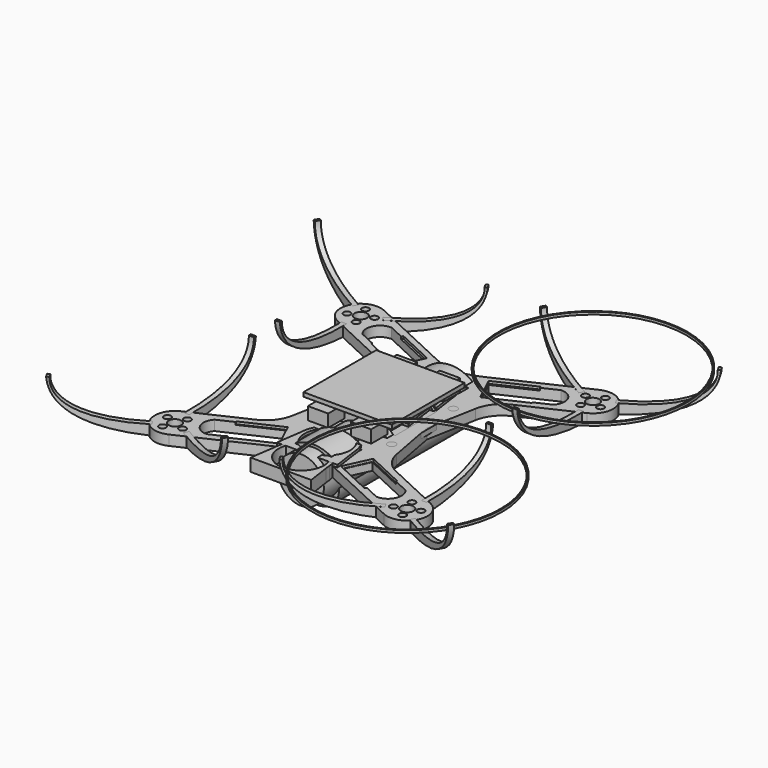
from build123d import *

# Parameters (mm, degrees)
CYLINDER001_R          = 37
CYLINDER001_DEPTH      = 1
CYLINDER002_R          = 37.5
CYLINDER002_DEPTH      = 1
CYLINDER003_R          = 37
CYLINDER003_DEPTH      = 1
CYLINDER004_R          = 37.5
CYLINDER004_DEPTH      = 1
CYLINDER005_R          = 8.25
CYLINDER005_DEPTH      = 65
BOX003_W               = 35.4
BOX003_H               = 36
BOX003_DEPTH           = 2
EXTRUDE002_DEPTH       = 5
EXTRUDE003_DEPTH       = 5
EXTRUDE004_DEPTH       = 5
BOX005_W               = 16
BOX005_H               = 1
BOX005_DEPTH           = 2
EXTRUDE001_DEPTH       = 5
BOX007_W               = 8
BOX007_H               = 8
BOX007_DEPTH           = 5
BOX_W                  = 35
BOX_H                  = 36
BOX_DEPTH              = 1.6
CYLINDER006_R          = 9
CYLINDER006_DEPTH      = 74
EXTRUDE008_DEPTH       = 11
EXTRUDE009_DEPTH       = 2
EXTRUDE009_DEPTH_BACK  = 11
EXTRUDE010_DEPTH       = 2
ARRAY_COUNT            = 3
CYLINDER009_R          = 10
CYLINDER009_DEPTH      = 5
CYLINDER010_R          = 11
CYLINDER010_DEPTH      = 5
CYLINDER008_R          = 10
CYLINDER008_DEPTH      = 5
CYLINDER007_R          = 11
CYLINDER007_DEPTH      = 5
BOX006_W               = 11.2
BOX006_H               = 16.5
BOX006_DEPTH           = 3
BOX006_PLACEMENT_ANGLE = 65
BOX008_W               = 3
BOX008_H               = 20
BOX008_DEPTH           = 10
EXTRUDE007_DEPTH       = 26
CYLINDER_R             = 9
CYLINDER_DEPTH         = 66
SKETCH_R               = 2.5
SKETCH_R_2             = 1.6
SKETCH_R_3             = 1.4
EXTRUDE_DEPTH          = 4


with BuildPart() as cylinder001:
    # Cylinder001 → Cylinder001 (new body)
    with BuildSketch(Plane(origin=(45.96, 45.96, 15), x_dir=(1, 0, 0), z_dir=(0, 0, 1))):
        Circle(CYLINDER001_R)
    extrude(amount=CYLINDER001_DEPTH)


with BuildPart() as prop_m1:
    # Cylinder002 → Cylinder002 (new body)
    with BuildSketch(Plane(origin=(45.96, 45.96, 15), x_dir=(1, 0, 0), z_dir=(0, 0, 1))):
        Circle(CYLINDER002_R)
    extrude(amount=CYLINDER002_DEPTH)

    # Cut: cut Cylinder001
    add(cylinder001.part, mode=Mode.SUBTRACT)


with BuildPart() as cylinder003:
    # Cylinder003 → Cylinder003 (new body)
    with BuildSketch(Plane(origin=(45.96, -45.96, 15), x_dir=(1, 0, 0), z_dir=(0, 0, 1))):
        Circle(CYLINDER003_R)
    extrude(amount=CYLINDER003_DEPTH)


with BuildPart() as prop_m2:
    # Cylinder004 → Cylinder004 (new body)
    with BuildSketch(Plane(origin=(45.96, -45.96, 15), x_dir=(1, 0, 0), z_dir=(0, 0, 1))):
        Circle(CYLINDER004_R)
    extrude(amount=CYLINDER004_DEPTH)

    # Cut001: cut Cylinder003
    add(cylinder003.part, mode=Mode.SUBTRACT)


with BuildPart() as battery:
    # Cylinder005 → Cylinder005 (new body)
    with BuildSketch(Plane(origin=(0, 32.5, -7), x_dir=(1, 0, 0), z_dir=(0, -1, 0))):
        Circle(CYLINDER005_R)
    extrude(amount=CYLINDER005_DEPTH)


with BuildPart() as cube003:
    # Box003 → Box003 (new body)
    with BuildSketch(Plane(origin=(-17.7, -18, 2), x_dir=(1, 0, 0), z_dir=(0, 0, 1))):
        with Locations((17.7, 18)):
            Rectangle(BOX003_W, BOX003_H)
    extrude(amount=BOX003_DEPTH)


with BuildPart() as holder_front001:
    # Sketch001 (on Face16 of Cut005) → Extrude002 (new body)
    with BuildSketch(Plane(origin=(0, 0, 0), x_dir=(1, 0, 0), z_dir=(0, 0, -1))):
        with BuildLine():
            ThreePointArc((7.483315, -12), (0, 2), (-7.483315, -12))
            Line((-9.233093, -12), (-7.483315, -12))
            ThreePointArc((-10.463405, -7.875874), (-10.061814, -10.001648), (-9.233093, -12))
            ThreePointArc((-10.463405, -7.875874), (-10.555519, -6.948852), (-10.676372, -6.025138))
            Line((-10.676372, -6.025138), (-12, 3))
            Line((-12, 3), (12, 3))
            Line((10.674333, -6.046727), (12, 3))
            ThreePointArc((10.674333, -6.046727), (10.554566, -6.962004), (10.463014, -7.880533))
            ThreePointArc((9.233093, -12), (10.061146, -10.003888), (10.463014, -7.880533))
            Line((7.483315, -12), (9.233093, -12))
        make_face()
    extrude(amount=-EXTRUDE002_DEPTH)


with BuildPart() as holder_back:
    # Sketch001 (on Face16 of Cut005) → Extrude003 (new body)
    with BuildSketch(Plane(origin=(0, 0, 0), x_dir=(1, 0, 0), z_dir=(0, 0, -1))):
        with BuildLine():
            ThreePointArc((7.483315, -12), (0, 2), (-7.483315, -12))
            Line((-9.233093, -12), (-7.483315, -12))
            ThreePointArc((-10.463405, -7.875874), (-10.061814, -10.001648), (-9.233093, -12))
            ThreePointArc((-10.463405, -7.875874), (-10.555519, -6.948852), (-10.676372, -6.025138))
            Line((-10.676372, -6.025138), (-12, 3))
            Line((-12, 3), (12, 3))
            Line((10.674333, -6.046727), (12, 3))
            ThreePointArc((10.674333, -6.046727), (10.554566, -6.962004), (10.463014, -7.880533))
            ThreePointArc((9.233093, -12), (10.061146, -10.003888), (10.463014, -7.880533))
            Line((7.483315, -12), (9.233093, -12))
        make_face()
    extrude(amount=-EXTRUDE003_DEPTH)


with BuildPart() as holder_back_1:
    # Extrude003 placement: moved
    add(holder_back.part.moved(Location((0, -48, 0))))


with BuildPart() as holder_back2:
    # Sketch001 (on Face16 of Cut005) → Extrude004 (new body)
    with BuildSketch(Plane(origin=(0, 0, 0), x_dir=(1, 0, 0), z_dir=(0, 0, -1))):
        with BuildLine():
            ThreePointArc((7.483315, -12), (0, 2), (-7.483315, -12))
            Line((-9.233093, -12), (-7.483315, -12))
            ThreePointArc((-10.463405, -7.875874), (-10.061814, -10.001648), (-9.233093, -12))
            ThreePointArc((-10.463405, -7.875874), (-10.555519, -6.948852), (-10.676372, -6.025138))
            Line((-10.676372, -6.025138), (-12, 3))
            Line((-12, 3), (12, 3))
            Line((10.674333, -6.046727), (12, 3))
            ThreePointArc((10.674333, -6.046727), (10.554566, -6.962004), (10.463014, -7.880533))
            ThreePointArc((9.233093, -12), (10.061146, -10.003888), (10.463014, -7.880533))
            Line((7.483315, -12), (9.233093, -12))
        make_face()
    extrude(amount=-EXTRUDE004_DEPTH)


with BuildPart() as holder_back2_1:
    # Extrude004 placement: moved
    add(holder_back2.part.moved(Location((0, -35, 0))))


with BuildPart() as cube005:
    # Box005 → Box005 (new body)
    with BuildSketch(Plane(origin=(-8, 33, -2), x_dir=(1, 0, 0), z_dir=(0, 0, 1))):
        with Locations((8, 0.5)):
            Rectangle(BOX005_W, BOX005_H)
    extrude(amount=BOX005_DEPTH)


with BuildPart() as holder_front002:
    # Sketch001 (on Face16 of Cut005) → Extrude001 (new body)
    with BuildSketch(Plane(origin=(0, 0, 0), x_dir=(1, 0, 0), z_dir=(0, 0, -1))):
        with BuildLine():
            ThreePointArc((7.483315, -12), (0, 2), (-7.483315, -12))
            Line((-9.233093, -12), (-7.483315, -12))
            ThreePointArc((-10.463405, -7.875874), (-10.061814, -10.001648), (-9.233093, -12))
            ThreePointArc((-10.463405, -7.875874), (-10.555519, -6.948852), (-10.676372, -6.025138))
            Line((-10.676372, -6.025138), (-12, 3))
            Line((-12, 3), (12, 3))
            Line((10.674333, -6.046727), (12, 3))
            ThreePointArc((10.674333, -6.046727), (10.554566, -6.962004), (10.463014, -7.880533))
            ThreePointArc((9.233093, -12), (10.061146, -10.003888), (10.463014, -7.880533))
            Line((7.483315, -12), (9.233093, -12))
        make_face()
    extrude(amount=-EXTRUDE001_DEPTH)


with BuildPart() as holder_front002_1:
    # Extrude001 placement: moved
    add(holder_front002.part.moved(Location((0, 14, 0))))

    # Fusion002: union Cube005
    add(cube005.part)


with BuildPart() as cube006:
    # Box007 → Box007 (new body)
    with BuildSketch(Plane(origin=(4.5, 14, 6), x_dir=(1, 0, 0), z_dir=(0, 0, 1))):
        with Locations((4, 4)):
            Rectangle(BOX007_W, BOX007_H)
    extrude(amount=BOX007_DEPTH)


with BuildPart() as fusion003:
    # Part__Mirroring003: instance of Cube006
    add(cube006.part.mirror(Plane(origin=(0, 0, 0), x_dir=(1, 0, 0), z_dir=(0, 1, 0))))

    # Fusion003: union Cube006
    add(cube006.part)


with BuildPart() as fusion004:
    # Part__Mirroring004: instance of Fusion003
    add(fusion003.part.mirror(Plane(origin=(0, 0, 0), x_dir=(0, -1, 0), z_dir=(1, 0, 0))))

    # Fusion004: union Fusion003
    add(fusion003.part)


with BuildPart() as bolt_pcb:
    # Box → Box (new body)
    with BuildSketch(Plane(origin=(-17.5, -18, 11), x_dir=(1, 0, 0), z_dir=(0, 0, 1))):
        with Locations((17.5, 18)):
            Rectangle(BOX_W, BOX_H)
    extrude(amount=BOX_DEPTH)

    # Fusion005: union Fusion004
    add(fusion004.part)


with BuildPart() as cylinder006:
    # Cylinder006 → Cylinder006 (new body)
    with BuildSketch(Plane(origin=(0, 33, -3), x_dir=(1, 0, 0), z_dir=(0, -1, 0))):
        Circle(CYLINDER006_R)
    extrude(amount=CYLINDER006_DEPTH)


with BuildPart() as extrude008:
    # Sketch003 (on Face2 of Cylinder006) → Extrude008 (new body)
    with BuildSketch(Plane(origin=(0, -41, -3), x_dir=(1, 0, 0), z_dir=(0, -1, 0))):
        with BuildLine():
            ThreePointArc((5.656854, 7), (0, 9), (-5.656854, 7))
            Line((-8.660254, 7), (-5.656854, 7))
            ThreePointArc((8.660254, 7), (0, 10), (-8.660254, 7))
            Line((5.656854, 7), (8.660254, 7))
        make_face()
    extrude(amount=-EXTRUDE008_DEPTH)


with BuildPart() as extrude008_1:
    # Extrude008 placement: moved
    add(extrude008.part.moved(Location((0, 63, 0))))


with BuildPart() as extrude009:
    # Sketch003 (on Face2 of Cylinder006) → Extrude009 (new body, two sides)
    with BuildSketch(Plane(origin=(0, -41, -3), x_dir=(1, 0, 0), z_dir=(0, -1, 0))) as extrude009_sk:
        with BuildLine():
            ThreePointArc((5.656854, 7), (0, 9), (-5.656854, 7))
            Line((-8.660254, 7), (-5.656854, 7))
            ThreePointArc((8.660254, 7), (0, 10), (-8.660254, 7))
            Line((5.656854, 7), (8.660254, 7))
        make_face()
    extrude(amount=EXTRUDE009_DEPTH)
    extrude(extrude009_sk.sketch, amount=-EXTRUDE009_DEPTH_BACK)


with BuildPart() as extrude009_1:
    # Extrude009 placement: moved
    add(extrude009.part.moved(Location((0, 8, 0))))


with BuildPart() as array:
    # Sketch004 → Extrude010 (new body)
    with BuildSketch(Plane(origin=(45.96, 45.96, 0), x_dir=(0, 1, 0), z_dir=(1, 0, 0))):
        with BuildLine():
            Line((-6.999955, 3.999966), (-6.999955, 4.8e-05))
            add(Edge.make_bspline(
                [(-6.999955, 4.8e-05), (-38.743463, 1.339871), (-40.006695, 18.000854)],
                knots=[0, 0, 0, 1, 1, 1], degree=2, weights=[5.181109, 4.836074, 4.95]))
            Line((-40.006695, 18.000854), (-38.997418, 18.000854))
            add(Edge.make_bspline(
                [(-6.999955, 3.999966), (-38.902102, 3.405926), (-39.097268, 15.599177), (-38.997418, 18.000854)],
                knots=[0, 0, 0, 0, 1, 1, 1, 1], degree=3, weights=[4, 4, 4, 3.96]))
        make_face()
    extrude(amount=EXTRUDE010_DEPTH)

    # Array: Array ×3 about axis
    array_axis = Axis((45.96, 45.96, 0), (0, 0, 1))


with BuildPart() as array_1:
    add(array.part)
    for i in range(1, ARRAY_COUNT):
        add(array.part.rotate(array_axis, i * 360 / ARRAY_COUNT))


with BuildPart() as fusion008:
    # Part__Mirroring006: instance of Array
    add(array_1.part.mirror(Plane(origin=(0, 0, 0), x_dir=(1, 0, 0), z_dir=(0, 1, 0))))

    # Fusion008: union Array
    add(array_1.part)


with BuildPart() as obj1:
    # Part__Mirroring007: instance of Fusion008
    add(fusion008.part.mirror(Plane(origin=(0, 0, 0), x_dir=(0, -1, 0), z_dir=(1, 0, 0))))

    # Fusion009: union Fusion008
    add(fusion008.part)


with BuildPart() as cylinder009:
    # Cylinder009 → Cylinder009 (new body)
    with BuildSketch(Plane.XZ.offset(-29)):
        Circle(CYLINDER009_R)
    extrude(amount=CYLINDER009_DEPTH)


with BuildPart() as cut009:
    # Cylinder010 → Cylinder010 (new body)
    with BuildSketch(Plane.XZ.offset(-29)):
        Circle(CYLINDER010_R)
    extrude(amount=CYLINDER010_DEPTH)

    # Cut009: cut Cylinder009
    add(cylinder009.part, mode=Mode.SUBTRACT)


with BuildPart() as cut009_1:
    # Cut009 placement: moved
    add(cut009.part.moved(Location((0, -53, 0))))


with BuildPart() as cylinder008:
    # Cylinder008 → Cylinder008 (new body)
    with BuildSketch(Plane.XZ.offset(-29)):
        Circle(CYLINDER008_R)
    extrude(amount=CYLINDER008_DEPTH)


with BuildPart() as obj2:
    # Cylinder007 → Cylinder007 (new body)
    with BuildSketch(Plane.XZ.offset(-29)):
        Circle(CYLINDER007_R)
    extrude(amount=CYLINDER007_DEPTH)

    # Cut008: cut Cylinder008
    add(cylinder008.part, mode=Mode.SUBTRACT)

    # Fusion011: union Cut009
    add(cut009_1.part)


with BuildPart() as esc:
    # Box006 → Box006 (new body)
    with BuildSketch(Plane.XY):
        with Locations((5.6, 8.25)):
            Rectangle(BOX006_W, BOX006_H)
    extrude(amount=BOX006_DEPTH)


with BuildPart() as esc_1:
    # Box006 placement: moved
    add(esc.part.moved(Location((-16.914864, 26.413937, 3))).rotate(Axis((-16.914864, 26.413937, 3), (0, 0, 1)), BOX006_PLACEMENT_ANGLE))


with BuildPart() as part_mirroring010:
    # Part__Mirroring010: instance of ESC
    add(esc_1.part.mirror(Plane(origin=(0, 0, 0), x_dir=(0, -1, 0), z_dir=(1, 0, 0))))


with BuildPart() as fusion012:
    # Fusion012 base: copy of ESC
    add(esc_1.part)

    # Fusion012: union Part__Mirroring010
    add(part_mirroring010.part)


with BuildPart() as part_mirroring011:
    # Part__Mirroring011: instance of Fusion012
    add(fusion012.part.mirror(Plane(origin=(0, 0, 0), x_dir=(1, 0, 0), z_dir=(0, 1, 0))))


with BuildPart() as esc001:
    # Fusion013 base: copy of Fusion012
    add(fusion012.part)

    # Fusion013: union Part__Mirroring011
    add(part_mirroring011.part)


with BuildPart() as cube007:
    # Box008 → Box008 (new body)
    with BuildSketch(Plane(origin=(9.5, -10, -2), x_dir=(1, 0, 0), z_dir=(0, 0, 1))):
        with Locations((1.5, 10)):
            Rectangle(BOX008_W, BOX008_H)
    extrude(amount=BOX008_DEPTH)


with BuildPart() as fusion006:
    # Part__Mirroring005: instance of Cube007
    add(cube007.part.mirror(Plane(origin=(0, 0, 0), x_dir=(0, -1, 0), z_dir=(1, 0, 0))))

    # Fusion006: union Cube007
    add(cube007.part)


with BuildPart() as extrude007:
    # Sketch002 (on Face2 of Cylinder) → Extrude007 (new body)
    with BuildSketch(Plane(origin=(0, -33, -3), x_dir=(1, 0, 0), z_dir=(0, -1, 0))):
        with BuildLine():
            ThreePointArc((6.708204, 6), (0, 9), (-6.708204, 6))
            Line((-12.489996, 6), (-6.708204, 6))
            ThreePointArc((12.489996, 6), (0, 12), (-12.489996, 6))
            Line((6.708204, 6), (12.489996, 6))
        make_face()
    extrude(amount=-EXTRUDE007_DEPTH)


with BuildPart() as extrude007_1:
    # Extrude007 placement: moved
    add(extrude007.part.moved(Location((0, 20, 0))))


with BuildPart() as cylinder:
    # Cylinder → Cylinder (new body)
    with BuildSketch(Plane(origin=(0, 33, -3), x_dir=(1, 0, 0), z_dir=(0, -1, 0))):
        Circle(CYLINDER_R)
    extrude(amount=CYLINDER_DEPTH)


with BuildPart() as extrude_body:
    # Sketch → Extrude (new body)
    with BuildSketch(Plane.XY):
        with BuildLine():
            Line((-27.657542, 28.599436), (-49.342902, 38.711486))
            ThreePointArc((-42.58097, 53.212392), (-53.212394, 49.342907), (-49.342902, 38.711486))
            Line((-9.416719, 37.747647), (-42.58097, 53.212392))
            ThreePointArc((-9.416719, 37.747647), (-6.060082, 36.421938), (-2.568541, 35.508888))
            Line((-2.568541, 35.508888), (0, 35))
            Line((0, 35), (0, 0))
            Line((0, 0), (-17, 0))
            Line((-20.655352, 19.569089), (-17, 0))
            ThreePointArc((-20.655352, 19.569089), (-23.063704, 24.931582), (-27.657542, 28.599436))
        make_face()
        with Locations((-45.961941, 45.961941)):
            Circle(SKETCH_R, mode=Mode.SUBTRACT)
        with Locations((-15.25, 15.25)):
            Circle(SKETCH_R_2, mode=Mode.SUBTRACT)
        with Locations((-50.190559, 44.422854)):
            Circle(SKETCH_R_3, mode=Mode.SUBTRACT)
        with Locations((-41.733324, 47.501031)):
            Circle(SKETCH_R_3, mode=Mode.SUBTRACT)
        with Locations((-44.422849, 41.733324)):
            Circle(SKETCH_R_3, mode=Mode.SUBTRACT)
        with Locations((-47.501029, 50.190558)):
            Circle(SKETCH_R_3, mode=Mode.SUBTRACT)
        with BuildLine():
            Line((-33.523078, 45.678493), (-12.677999, 35.958273))
            Line((-12.677999, 35.958273), (-16.904182, 26.895196))
            Line((-16.904182, 26.895196), (-37.749261, 36.615416))
            ThreePointArc((-33.523078, 45.678493), (-38.711478, 42.580995), (-37.749261, 36.615416))
        make_face(mode=Mode.SUBTRACT)
    extrude(amount=EXTRUDE_DEPTH)


with BuildPart() as part_mirroring:
    # Part__Mirroring: instance of Extrude body
    add(extrude_body.part.mirror(Plane(origin=(0, 0, 0), x_dir=(1, 0, 0), z_dir=(0, 1, 0))))


with BuildPart() as part_mirroring001:
    # Part__Mirroring001: instance of Part__Mirroring
    add(part_mirroring.part.mirror(Plane(origin=(0, 0, 0), x_dir=(0, -1, 0), z_dir=(1, 0, 0))))


with BuildPart() as cut011:
    # Part__Mirroring002: instance of Extrude body
    add(extrude_body.part.mirror(Plane(origin=(0, 0, 0), x_dir=(0, -1, 0), z_dir=(1, 0, 0))))

    # Fusion: union Extrude body, Part__Mirroring001, Part__Mirroring
    add(extrude_body.part)
    add(part_mirroring001.part)
    add(part_mirroring.part)

    # Cut005: cut Cylinder
    add(cylinder.part, mode=Mode.SUBTRACT)

    # Fusion007: union Extrude007
    add(extrude007_1.part)

    # Cut006: cut Fusion006
    add(fusion006.part, mode=Mode.SUBTRACT)

    # Cut010: cut ESC001
    add(esc001.part, mode=Mode.SUBTRACT)

    # Cut011: cut obj2
    add(obj2.part, mode=Mode.SUBTRACT)


solid = Compound([prop_m1.part, prop_m2.part, battery.part, cube003.part, holder_front001.part, holder_back_1.part, holder_back2_1.part, holder_front002_1.part, bolt_pcb.part, cylinder006.part, extrude008_1.part, extrude009_1.part, obj1.part, cut011.part])
